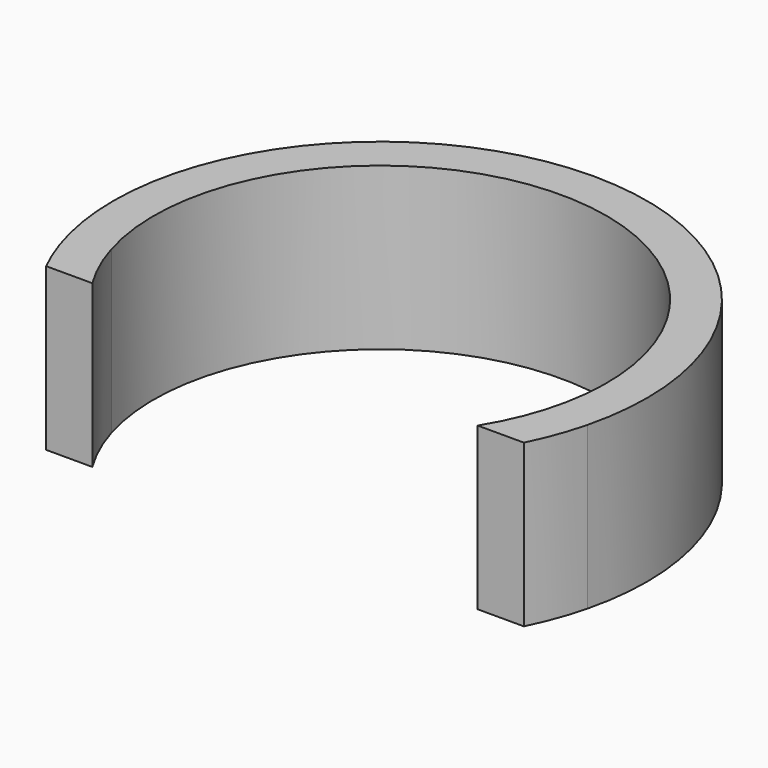
from build123d import *

# Parameters (mm, degrees)
F1_DEPTH = 10


with BuildPart() as f1:
    # F0 (on Top) → F1 (new body)
    with BuildSketch(Plane.XY):
        with BuildLine():
            ThreePointArc((-13.416408, -4), (0, 14), (13.416408, -4))
            ThreePointArc((13.416408, -4), (12.774857, -5.727392), (11.911998, -7.355563))
            Line((11.911998, -7.355563), (14.769756, -7.355563))
            ThreePointArc((14.769756, -7.355563), (15.479974, -5.711427), (16.007811, -4))
            ThreePointArc((16.007811, -4), (0, 16.5), (-16.007811, -4))
            ThreePointArc((-16.007811, -4), (-15.479974, -5.711427), (-14.769756, -7.355563))
            Line((-14.769756, -7.355563), (-11.911998, -7.355563))
            ThreePointArc((-11.911998, -7.355563), (-12.774857, -5.727392), (-13.416408, -4))
        make_face()
    extrude(amount=F1_DEPTH)


solid = f1.part
